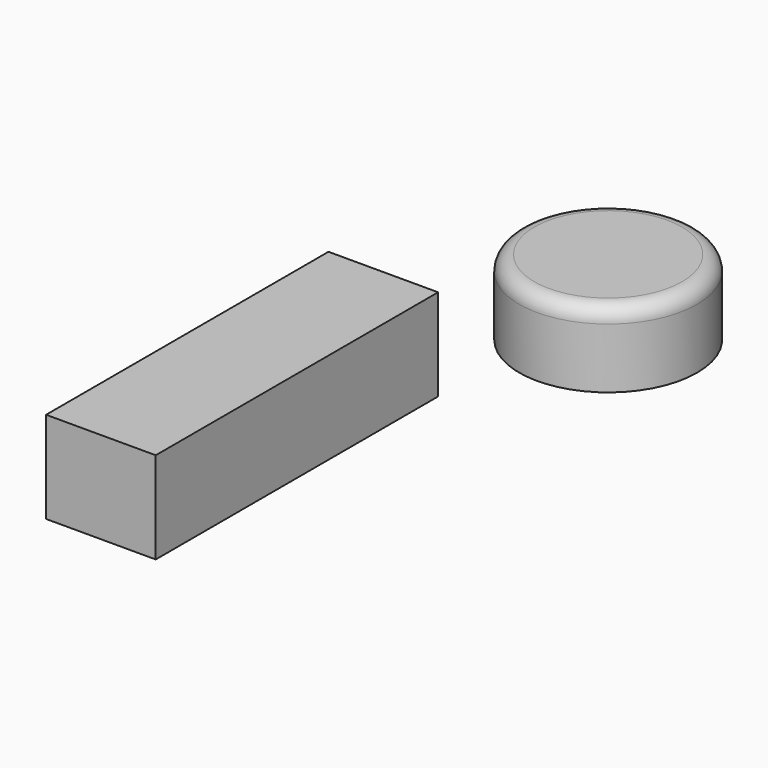
from build123d import *

# Parameters (mm, degrees)
F0_W     = 110.0296452641
F0_H     = 111.7058545351
F1_DEPTH = 50
F2_R     = 5
F4_W     = 36.4418327808
F4_H     = 30.4941609502
F5_DEPTH = 117.3110455275
F6_R     = 29.5711751296
F7_DEPTH = 25
F8_R     = 5


with BuildPart() as f1:
    # F0 (on Front) → F1 (new body)
    with BuildSketch(Plane.XZ):
        Rectangle(F0_W, F0_H)
    extrude(amount=F1_DEPTH)

    # F2
    f2_edges = [f1.edges().sort_by_distance(p)[0] for p in [
        (-55.014823, -25, 55.852927),
        (55.014823, -25, 55.852927),
        (0, -50, 55.852927),
        (-55.014823, -50, 0),
        (0, -50, -55.852927),
        (55.014823, -50, 0),
    ]]
    fillet(f2_edges, radius=F2_R)


with BuildPart() as f5:
    # F4 (on Front) → F5 (new body)
    with BuildSketch(Plane.XZ):
        with Locations((18.2209163904, 15.2470804751)):
            Rectangle(F4_W, F4_H)
    extrude(amount=F5_DEPTH)


with BuildPart() as f7:
    # F6 (on Top) → F7 (new body)
    with BuildSketch(Plane.XY):
        with Locations((51.0176420212, 52.4319671094)):
            Circle(F6_R)
    extrude(amount=F7_DEPTH)

    # F8
    f8_edges = [f7.edges().sort_by_distance(p)[0] for p in [
        (21.446467, 52.431967, 25),
    ]]
    fillet(f8_edges, radius=F8_R)


solid = Compound([f5.part, f7.part])
